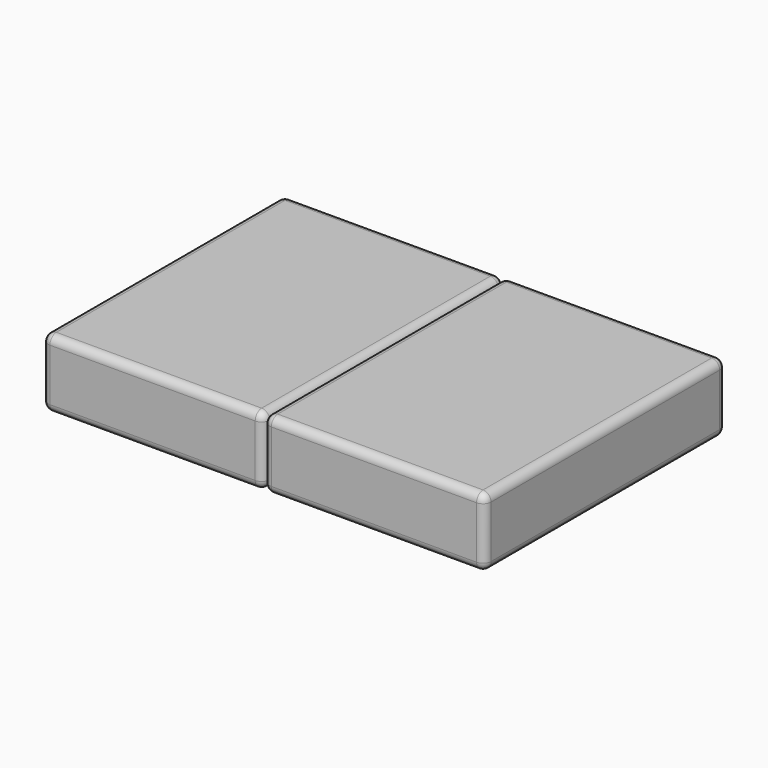
from build123d import *

# Parameters (mm, degrees)
SKETCH004_W      = 550
SKETCH004_H      = 750
EXTRUDE005_DEPTH = 170
FILLET_R         = 20
ARRAY002_X_COUNT = 2
ARRAY002_X_PITCH = 550


with BuildPart() as part:
    # Sketch004 → Extrude005 (new body)
    with BuildSketch(Plane.XY):
        with Locations((275, 375)):
            Rectangle(SKETCH004_W, SKETCH004_H)
    extrude(amount=EXTRUDE005_DEPTH)

    # Fillet
    fillet_edges = [part.edges().sort_by_distance(p)[0] for p in [
        (0, 0, 85),
        (550, 0, 85),
        (275, 0, 0),
        (275, 0, 170),
        (550, 750, 85),
        (550, 375, 0),
        (550, 375, 170),
        (0, 750, 85),
        (275, 750, 0),
        (275, 750, 170),
        (0, 375, 0),
        (0, 375, 170),
    ]]
    fillet(fillet_edges, radius=FILLET_R)

    # Array002 X: part ×2


with BuildPart() as part_1:
    add(part.part)
    with Locations(*[(i * ARRAY002_X_PITCH, 0, 0) for i in range(1, ARRAY002_X_COUNT)]):
        add(part.part)


with BuildPart() as part_2:
    # Array002 placement: moved
    add(part_1.part.moved(Location((50, 0, 230))))


solid = part_2.part
